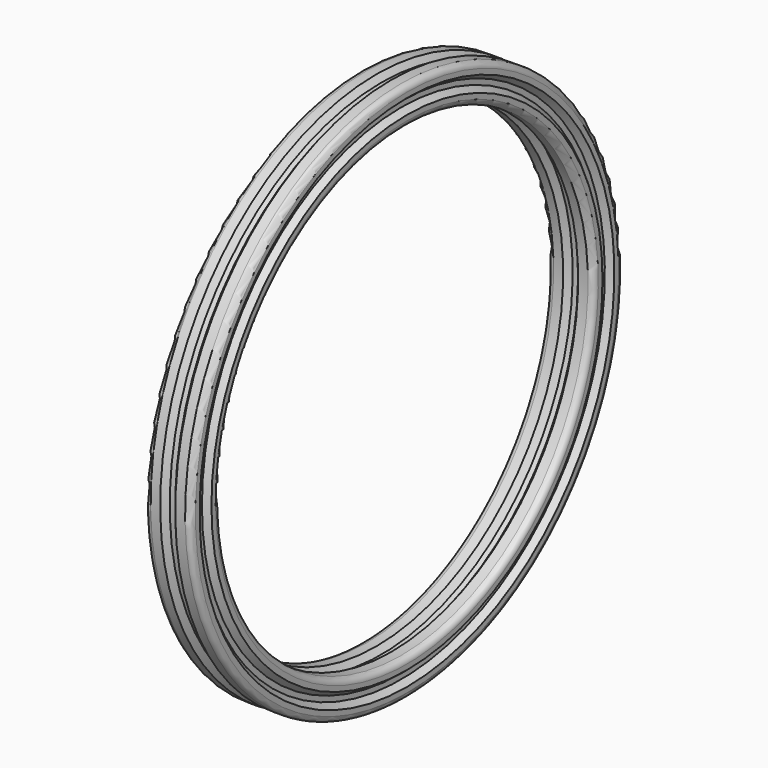
from build123d import *

# Parameters (mm, degrees)
F2_R = 0.1905


with BuildPart() as f1:
    # F0 (on Front) → F1 (revolve)
    with BuildSketch(Plane.XZ):
        Polygon((0, 8.11022), (0, 7.747), (0.50957, 7.747), (0.6731, 7.936735), (0.762, 7.936735), (0.8509, 7.936735), (1.008017, 7.747), (1.524, 7.747), (1.524, 8.11022), (1.3335, 8.2677), (1.3335, 8.3566), (1.3335, 8.4455), (1.524, 8.60298), (1.524, 8.9662), (1.008017, 8.9662), (0.8509, 8.776465), (0.762, 8.776465), (0.6731, 8.776465), (0.50957, 8.9662), (0, 8.9662), (0, 8.60298), (0.1905, 8.4455), (0.1905, 8.3566), (0.1905, 8.2677), align=None)
    revolve(axis=Axis((0.474345, 0, 0), (1, 0, 0)))

    # F2
    f2_edges = [f1.edges().sort_by_distance(p)[0] for p in [
        (0, 0, -8.9662),
        (1.524, 0, -8.9662),
        (0, 0, -7.747),
        (1.524, 0, -7.747),
    ]]
    fillet(f2_edges, radius=F2_R)


solid = f1.part
